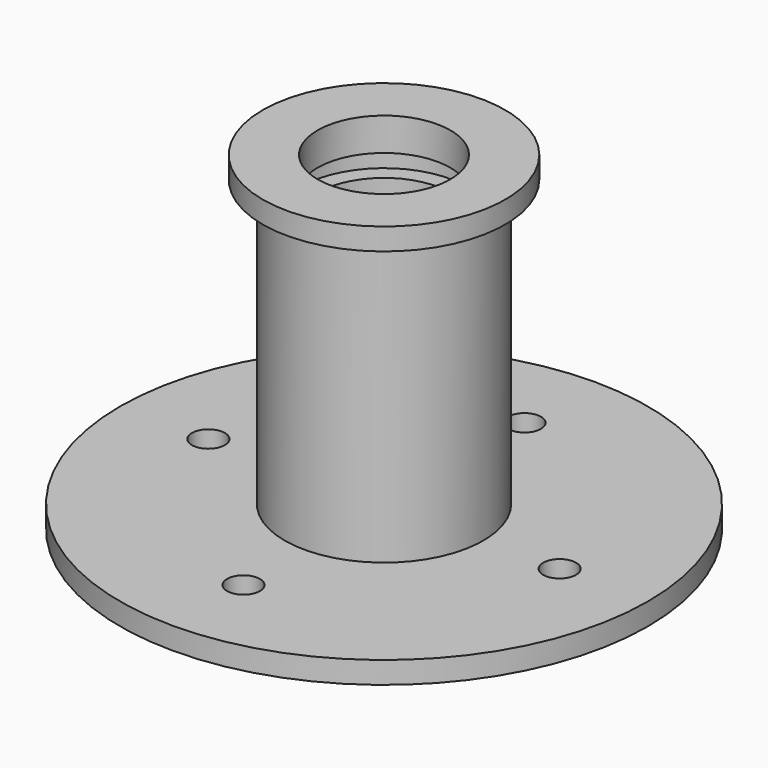
from build123d import *

# Parameters (mm, degrees)
SKETCH001_R  = 1.5
POCKET_DEPTH = 2.001


with BuildPart() as part:
    # Sketch → Revolution (revolve)
    with BuildSketch(Plane.XZ):
        Polygon((-6.05, 0), (-24.05, 0), (-24.05, 2), (-9.05, 2), (-9.05, 28), (-11.05, 28), (-11.05, 30), (-6.05, 30), (-6.05, 27), (-7.55, 27), (-7.55, 25), (-6.05, 25), (-6.05, 4), (-7.55, 4), (-7.55, 2), (-6.05, 2), align=None)
    revolve(axis=Axis((0, 0, 0), (0, 0, 1)))

    # Sketch001 (on Face3 of Revolution) → Pocket (cut, through all)
    with BuildSketch(Plane(origin=(0, 0, 2), x_dir=(-1, 0, 0), z_dir=(0, 0, 1))):
        with Locations((0, 16)):
            Circle(SKETCH001_R)
        with Locations((0, -16)):
            Circle(SKETCH001_R)
        with Locations((16, 0)):
            Circle(SKETCH001_R)
        with Locations((-16, 0)):
            Circle(SKETCH001_R)
    extrude(amount=-POCKET_DEPTH, mode=Mode.SUBTRACT)


solid = part.part
